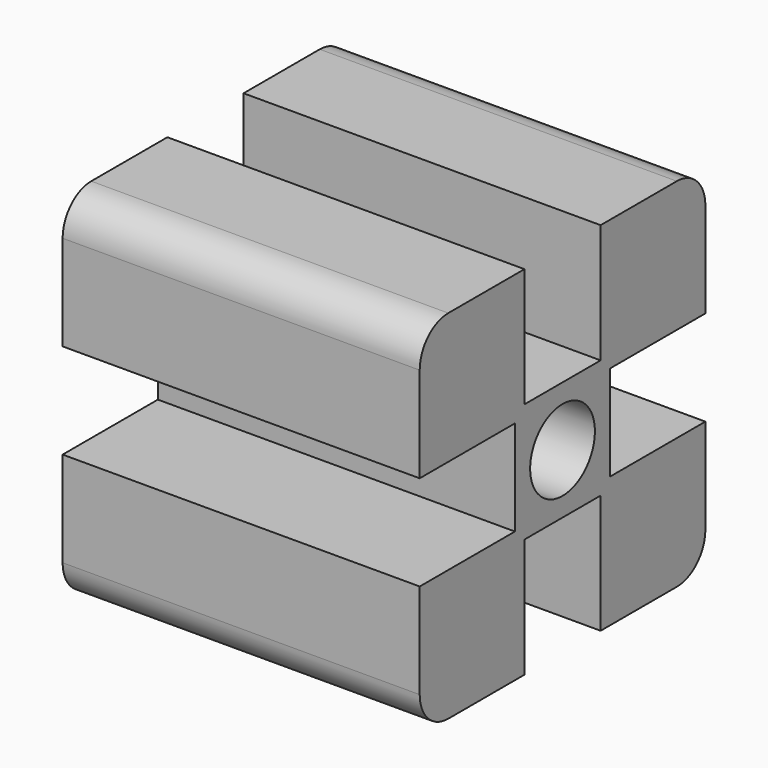
from build123d import *

# Parameters (mm, degrees)
F1_DEPTH = 30
F2_R     = 3.4
F3_DEPTH = 30
F4_R     = 3


with BuildPart() as f1:
    # F0 (on Right) → F1 (new body)
    with BuildSketch(Plane.YZ):
        Polygon((15, 19), (15, 30), (4, 30), (4, 20), (-4, 20), (-4, 30), (-15, 30), (-15, 19), (-5, 19), (-5, 11), (-15, 11), (-15, 0), (-4, 0), (-4, 10), (4, 10), (4, 0), (15, 0), (15, 11), (5, 11), (5, 19), align=None)
    extrude(amount=F1_DEPTH)

    # F2 (on face) → F3 (cut)
    with BuildSketch(Plane.YZ.offset(30)):
        with Locations((0, 15)):
            Circle(F2_R)
    extrude(amount=-F3_DEPTH, mode=Mode.SUBTRACT)

    # F4
    f4_edges = [f1.edges().sort_by_distance(p)[0] for p in [
        (15, 15, 30),
        (15, -15, 0),
        (15, -15, 30),
        (15, 15, 0),
    ]]
    fillet(f4_edges, radius=F4_R)


solid = f1.part
